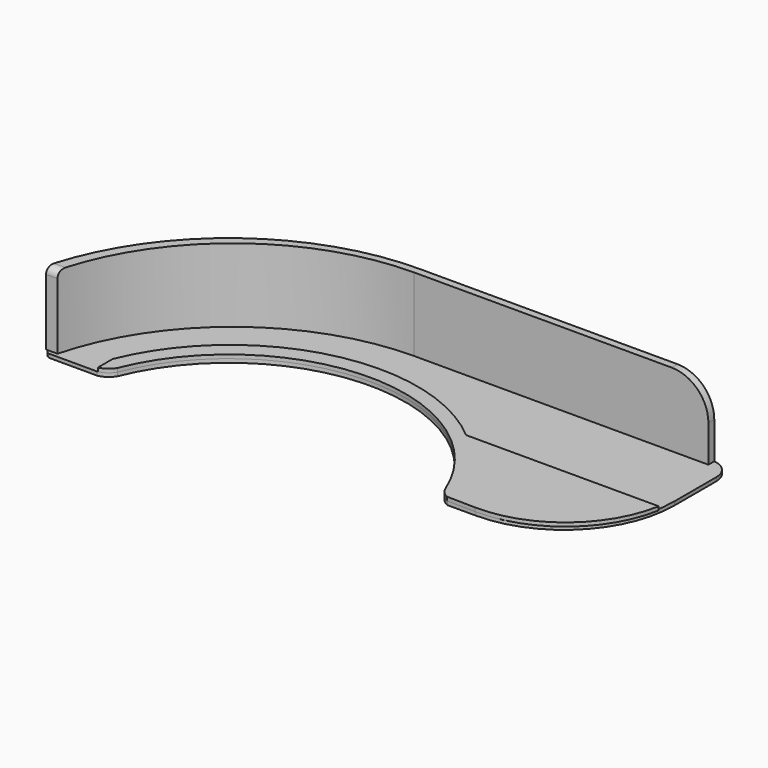
from build123d import *

# Parameters (mm, degrees)
PAD002_DEPTH = 1
PAD_DEPTH    = 1
PAD004_DEPTH = 20
FILLET_R     = 10
FILLET001_R  = 2


with BuildPart() as obj1:
    # Sketch002 → Pad002 (new body)
    with BuildSketch(Plane.XY.offset(1)):
        with BuildLine():
            ThreePointArc((44.629065, 17.6705), (0.14521, 47.99978), (-44.521334, 17.9402))
            ThreePointArc((-47.9135, 15.4491), (-45.942552, 16.320362), (-44.521334, 17.9402))
            Line((-47.9135, 20.4491), (-47.9135, 15.4491))
            ThreePointArc((32.5316, 40), (-12.69933, 50.832278), (-47.9135, 20.4491))
            Line((84.8825, 40), (32.5316, 40))
            ThreePointArc((54.786712, 15.2303), (74.405353, 22.061582), (84.8825, 40))
            Line((47.032776, 15.3736), (54.786712, 15.2303))
            ThreePointArc((44.629065, 17.6705), (45.634419, 16.316411), (47.032776, 15.3736))
        make_face()
    extrude(amount=PAD002_DEPTH)


with BuildPart() as fillet001:
    # Sketch → Pad (new body)
    with BuildSketch(Plane.XY):
        with BuildLine():
            ThreePointArc((0, 65), (-39.250322, 51.811314), (-62.572638, 17.5973))
            ThreePointArc((-62.572638, 17.5973), (-62.281657, 16.256919), (-61.1956, 15.4192))
            Line((-61.1956, 15.4192), (-48.0942, 15.4192))
            ThreePointArc((-48.0942, 15.4192), (-46.017568, 16.268418), (-44.521334, 17.9402))
            ThreePointArc((44.629065, 17.6705), (0.14521, 47.99978), (-44.521334, 17.9402))
            ThreePointArc((44.629065, 17.6705), (45.695788, 16.297968), (47.167959, 15.3736))
            Line((47.167959, 15.3736), (54.923211, 15.384158))
            ThreePointArc((54.923211, 15.384158), (76.110008, 24.185371), (84.88237, 45.38413))
            Line((84.88237, 59.61183), (84.88237, 45.38413))
            ThreePointArc((84.88237, 59.61183), (83.304212, 63.421842), (79.4942, 65))
            Line((0, 65), (79.4942, 65))
        make_face()
    extrude(amount=PAD_DEPTH)

    # Sketch001 → Pad004 (new body)
    with BuildSketch(Plane.XY.offset(1)):
        with BuildLine():
            ThreePointArc((6e-05, 65), (-39.693641, 51.472467), (-62.865542, 16.5204))
            Line((-62.865542, 16.5204), (-59.765542, 16.5204))
            ThreePointArc((6e-05, 63), (-37.80132, 49.942273), (-59.765542, 16.5204))
            Line((80.00006, 63), (6e-05, 63))
            Line((80.00006, 65), (80.00006, 63))
            Line((6e-05, 65), (80.00006, 65))
        make_face()
    extrude(amount=PAD004_DEPTH)

    # Fillet
    fillet_edges = [fillet001.edges().sort_by_distance(p)[0] for p in [
        (80.00006, 64, 21),
    ]]
    fillet(fillet_edges, radius=FILLET_R)

    # Fillet001
    fillet001_edges = [fillet001.edges().sort_by_distance(p)[0] for p in [
        (-61.315542, 16.5204, 21),
    ]]
    fillet(fillet001_edges, radius=FILLET001_R)


solid = Compound([obj1.part, fillet001.part])
